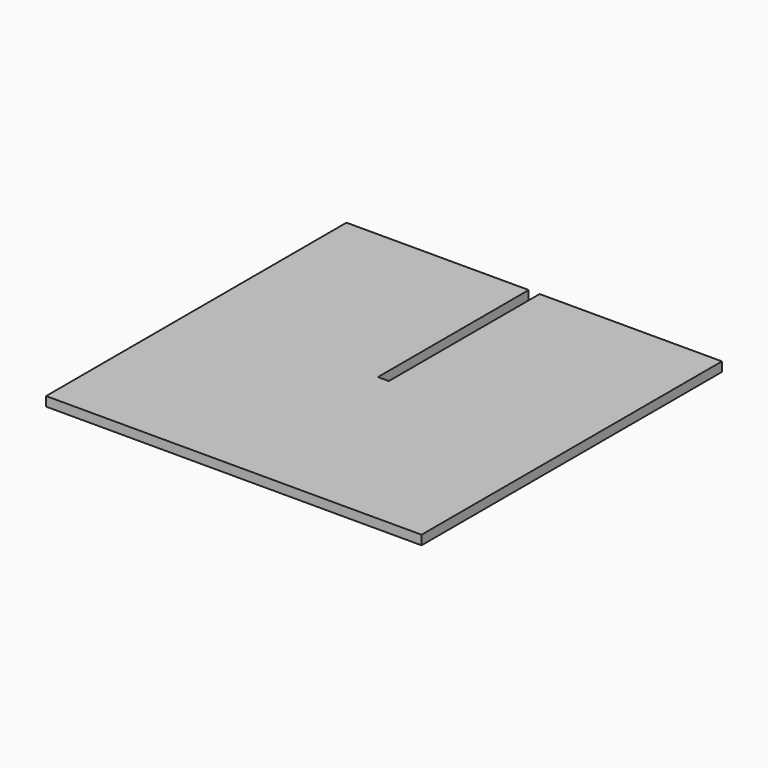
from build123d import *

# Parameters (mm, degrees)
PAD_DEPTH = 6


with BuildPart() as part:
    # Sketch → Pad (new body)
    with BuildSketch(Plane.XY):
        Polygon((-120.65, 120.65), (-120.65, -120.65), (120.65, -120.65), (120.65, 120.65), (3.5, 120.65), (3.5, -0.5), (-3.5, -0.5), (-3.5, 120.65), align=None)
    extrude(amount=PAD_DEPTH)


solid = part.part
